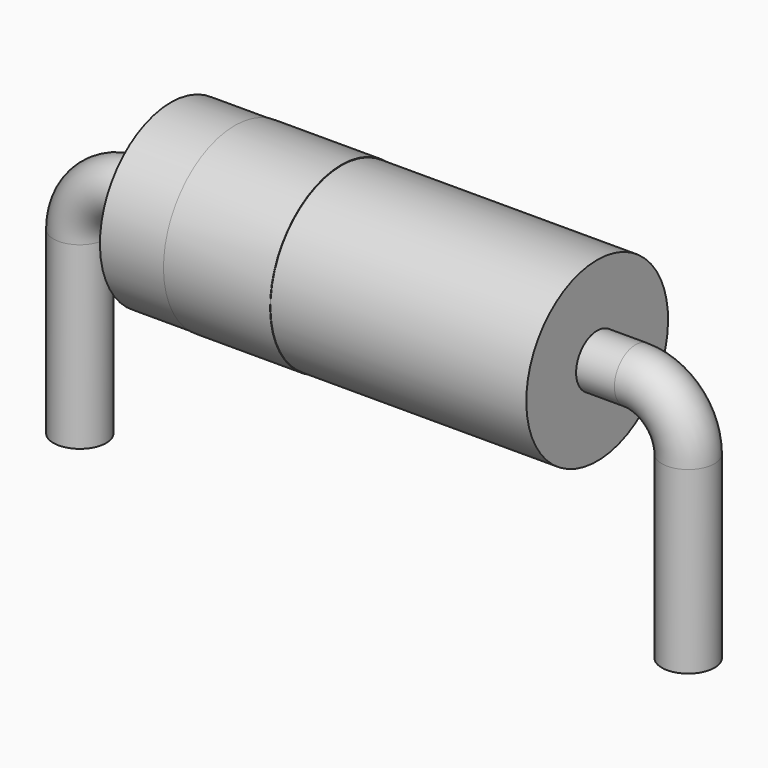
from build123d import *

# Parameters (mm, degrees)
SKETCH002_W = 8.9
SKETCH002_H = 1.85
SKETCH003_W = 2.225
SKETCH003_H = 0.02
SKETCH_R    = 0.55


with BuildPart() as revolution:
    # Sketch002 → Revolution (revolve)
    with BuildSketch(Plane.XZ):
        with Locations((6.35, 3.275)):
            Rectangle(SKETCH002_W, SKETCH002_H)
    revolve(axis=Axis((1.9, 0, 2.35), (1, 0, 0)))


with BuildPart() as revolution001:
    # Sketch003 → Revolution001 (revolve)
    with BuildSketch(Plane.XZ):
        with Locations((4.3475, 4.2)):
            Rectangle(SKETCH003_W, SKETCH003_H)
    revolve(axis=Axis((0, 0, 2.35), (1, 0, 0)))


with BuildPart() as sweep_body:
    # Sweep: sweep along a path in Sketch001
    with BuildLine(Plane.XZ) as sweep_path:
        Line((0, -2.5), (0, 1.25))
        ThreePointArc((0, 1.25), (0.322183, 2.027817), (1.1, 2.35))
        Line((1.1, 2.35), (11.6, 2.35))
        ThreePointArc((11.6, 2.35), (12.377817, 2.027817), (12.7, 1.25))
        Line((12.7, 1.25), (12.7, -2.5))
    # Sketch → Sweep (sweep)
    with BuildSketch(Plane.XY.offset(-2)):
        Circle(SKETCH_R)
    sweep(path=sweep_path.line)


solid = Compound([revolution.part, revolution001.part, sweep_body.part])
